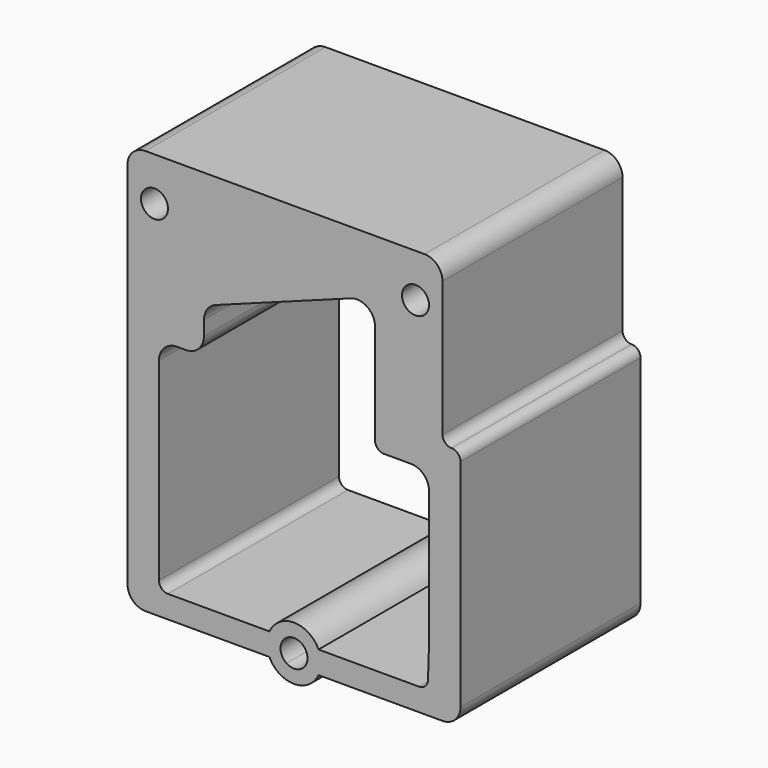
from build123d import *

# Parameters (mm, degrees)
F0_R     = 3
F0_R_2   = 1.5
F1_DEPTH = 25


with BuildPart() as f1:
    # F0 (on Front) → F1 (new body)
    with BuildSketch(Plane.XZ):
        with BuildLine():
            Line((14.5, 22.5), (-16.5, 22.5))
            ThreePointArc((-16.5, 22.5), (-17.9142135624, 21.9142135624), (-18.5, 20.5))
            Line((-18.5, 20.5), (-18.5, 17.6726558901))
            Line((-18.5, 17.6726558901), (-18.5, -20.5))
            ThreePointArc((-18.5, -20.5), (-17.9142135624, -21.9142135624), (-16.5, -22.5))
            Line((-16.5, -22.5), (-2.7271780287, -22.5))
            ThreePointArc((-2.7271780287, -22.5), (-3, -21.25), (-2.7271780287, -20))
            Line((-2.7271780287, -20), (-14, -20))
            ThreePointArc((-14, -20), (-14.7071067812, -19.7071067812), (-15, -19))
            Line((-15, -19), (-15, -15.5))
            Line((-15, -15.5), (-15, 2.5))
            ThreePointArc((-15, 2.5), (-14.4142135624, 3.9142135624), (-13, 4.5))
            Line((-13, 4.5), (-12, 4.5))
            ThreePointArc((-12, 4.5), (-10.5857864376, 5.0857864376), (-10, 6.5))
            Line((-10, 6.5), (-10, 8.1054256072))
            ThreePointArc((-10, 8.1054256072), (-9.6405519552, 9.2493614806), (-8.6914107177, 9.9821118409))
            Line((-8.6914107177, 9.9821118409), (6.3085892823, 15.5084276303))
            ThreePointArc((6.3085892823, 15.5084276303), (8.1439358734, 15.2722933519), (9, 13.6317413967))
            Line((9, 13.6317413967), (9, 2.5))
            ThreePointArc((9, 2.5), (9.2928932188, 1.7928932188), (10, 1.5))
            Line((10, 1.5), (13, 1.5))
            ThreePointArc((13, 1.5), (14.4142135624, 0.9142135624), (15, -0.5))
            Line((15, -0.5), (15, -15.5))
            ThreePointArc((15, -15.5), (14.9989931779, -15.5634529316), (14.9959737255, -15.6268419774))
            Line((14.9959737255, -15.6268419774), (14.8878943659, -19.0317264658))
            ThreePointArc((14.8878943659, -19.0317264658), (14.5841971496, -19.7182361958), (13.8883977769, -20))
            Line((13.8883977769, -20), (2.7271780287, -20))
            ThreePointArc((2.7271780287, -20), (2.9310010309, -20.6102868166), (3, -21.25))
            ThreePointArc((3, -21.25), (2.9310010309, -21.8897131834), (2.7271780287, -22.5))
            Line((2.7271780287, -22.5), (16.5, -22.5))
            ThreePointArc((16.5, -22.5), (17.9142135624, -21.9142135624), (18.5, -20.5))
            Line((18.5, -20.5), (18.5, 3.5))
            ThreePointArc((18.5, 3.5), (18.2071067812, 4.2071067812), (17.5, 4.5))
            ThreePointArc((17.5, 4.5), (16.7928932188, 4.7928932188), (16.5, 5.5))
            Line((16.5, 5.5), (16.5, 17.6726558901))
            Line((16.5, 17.6726558901), (16.5, 20.5))
            ThreePointArc((16.5, 20.5), (15.9142135624, 21.9142135624), (14.5, 22.5))
        make_face()
        with BuildLine():
            ThreePointArc((-12.5, 17.6726558901), (-15.5, 14.6726558901), (-18.5, 17.6726558901))
            ThreePointArc((-18.5, 17.6726558901), (-15.5, 20.6726558901), (-12.5, 17.6726558901))
        make_face(mode=Mode.SUBTRACT)
        with Locations((13.5, 17.6726558901)):
            Circle(F0_R, mode=Mode.SUBTRACT)
        with BuildLine():
            ThreePointArc((-2.7271780287, -20), (-3, -21.25), (-2.7271780287, -22.5))
            Line((-2.7271780287, -22.5), (-0.8291561976, -22.5))
            ThreePointArc((-0.8291561976, -22.5), (-1.5, -21.25), (-0.8291561976, -20))
            Line((-0.8291561976, -20), (-2.7271780287, -20))
        make_face()
        with BuildLine():
            ThreePointArc((-2.7271780287, -20), (-3, -21.25), (-2.7271780287, -22.5))
            Line((-2.7271780287, -22.5), (-0.8291561976, -22.5))
            ThreePointArc((-0.8291561976, -22.5), (-1.5, -21.25), (-0.8291561976, -20))
            Line((-0.8291561976, -20), (-2.7271780287, -20))
        make_face()
        with BuildLine():
            Line((-0.8291561976, -22.5), (-2.7271780287, -22.5))
            ThreePointArc((-2.7271780287, -22.5), (0, -24.25), (2.7271780287, -22.5))
            Line((2.7271780287, -22.5), (0.8291561976, -22.5))
            ThreePointArc((0.8291561976, -22.5), (0, -22.75), (-0.8291561976, -22.5))
        make_face()
        with BuildLine():
            Line((0.8291561976, -22.5), (2.7271780287, -22.5))
            ThreePointArc((2.7271780287, -22.5), (2.9310010309, -21.8897131834), (3, -21.25))
            ThreePointArc((3, -21.25), (2.9310010309, -20.6102868166), (2.7271780287, -20))
            Line((2.7271780287, -20), (0.8291561976, -20))
            ThreePointArc((0.8291561976, -20), (1.3216910184, -20.5406814173), (1.5, -21.25))
            ThreePointArc((1.5, -21.25), (1.3216910184, -21.9593185827), (0.8291561976, -22.5))
        make_face()
        with BuildLine():
            ThreePointArc((2.7271780287, -20), (0, -18.25), (-2.7271780287, -20))
            Line((-2.7271780287, -20), (-0.8291561976, -20))
            ThreePointArc((-0.8291561976, -20), (0, -19.75), (0.8291561976, -20))
            Line((0.8291561976, -20), (2.7271780287, -20))
        make_face()
        with BuildLine():
            ThreePointArc((-12.5, 17.6726558901), (-15.5, 20.6726558901), (-18.5, 17.6726558901))
            ThreePointArc((-18.5, 17.6726558901), (-15.5, 14.6726558901), (-12.5, 17.6726558901))
        make_face()
        with Locations((-15.5, 17.6726558901)):
            Circle(F0_R_2, mode=Mode.SUBTRACT)
        with Locations((13.5, 17.6726558901)):
            Circle(F0_R)
        with Locations((13.5, 17.6726558901)):
            Circle(F0_R_2, mode=Mode.SUBTRACT)
    extrude(amount=F1_DEPTH)


solid = f1.part
